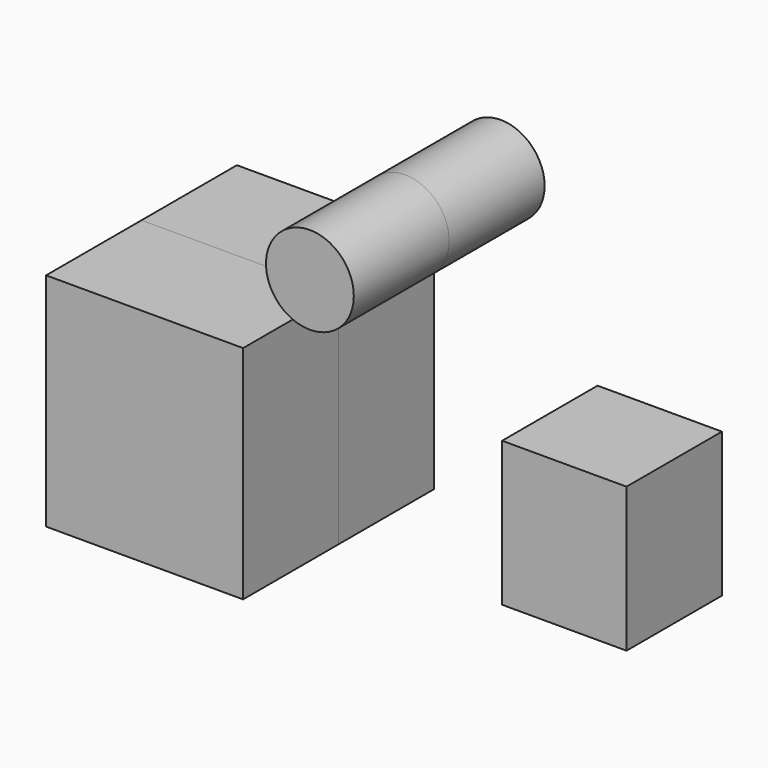
from build123d import *

# Parameters (mm, degrees)
F0_W      = 26.492203
F0_H      = 30.759401
F0_W_2    = 41.960802
F0_H_2    = 47.117001
F0_R      = 9.354376
F1_DEPTH  = 25.4
F1_FACE_W = 41.960802
F1_FACE_H = 47.117
F1_FACE_R = 9.354376
F2_DEPTH  = 25.4


with BuildPart() as f1:
    # F0 (on Front) → F1 (new body)
    with BuildSketch(Plane.XZ):
        with Locations((39.8272, -4.267199)):
            Rectangle(F0_W, F0_H)
        with Locations((-29.248102, 3.911601)):
            Rectangle(F0_W_2, F0_H_2)
        with Locations((5.956299, 44.894498)):
            Circle(F0_R)
    extrude(amount=F1_DEPTH)


with BuildPart() as f2:
    # F1_face (on face) → F2 (new body)
    with BuildSketch(Plane(origin=(-29.248102, -25.4, 3.9116), x_dir=(1, 0, 0), z_dir=(0, -1, 0))):
        Rectangle(F1_FACE_W, F1_FACE_H)
        with Locations((35.204401, 40.982897)):
            Circle(F1_FACE_R)
    extrude(amount=F2_DEPTH)


solid = Compound([f1.part, f2.part])
